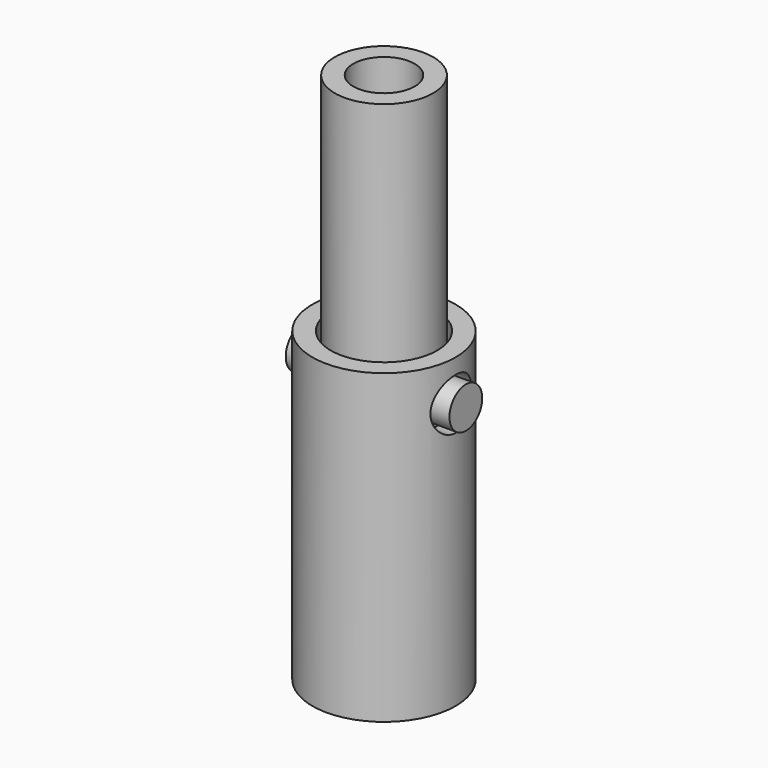
from build123d import *

# Parameters (mm, degrees)
F0_R           = 35
F0_R_2         = 26
F1_DEPTH       = 150
F3_R           = 24
F3_R_2         = 15
F4_DEPTH       = 150
F5_R           = 12.5
F6_DEPTH       = 35.001
F6_DEPTH_BACK  = 35.001
F7_R           = 10
F8_DEPTH       = 40
F8_DEPTH_BACK  = 40
F9_R           = 6
F10_DEPTH      = 110.0010001
F10_DEPTH_BACK = 150.0010001


with BuildPart() as f1:
    # F0 (on Top) → F1 (new body)
    with BuildSketch(Plane.XY):
        Circle(F0_R)
        Circle(F0_R_2, mode=Mode.SUBTRACT)
    extrude(amount=-F1_DEPTH)


with BuildPart() as f4:
    # F3 (on offset) → F4 (new body)
    with BuildSketch(Plane.XY.offset(-40)):
        Circle(F3_R)
        Circle(F3_R_2, mode=Mode.SUBTRACT)
    extrude(amount=F4_DEPTH)


with BuildPart() as f6_tool:
    # F5 (on Right) → F6 (new body, two sides)
    with BuildSketch(Plane.YZ) as f6_sk:
        with Locations((0, -20)):
            Circle(F5_R)
    extrude(amount=-F6_DEPTH)
    extrude(f6_sk.sketch, amount=F6_DEPTH_BACK)


with BuildPart() as f1_1:
    add(f1.part)

    # F6: cut by f6_tool
    add(f6_tool.part, mode=Mode.SUBTRACT)


with BuildPart() as f4_1:
    add(f4.part)

    # F6: cut by f6_tool
    add(f6_tool.part, mode=Mode.SUBTRACT)


with BuildPart() as f8:
    # F7 (on Right) → F8 (new body, two sides)
    with BuildSketch(Plane.YZ) as f8_sk:
        with Locations((0, -20)):
            Circle(F7_R)
    extrude(amount=F8_DEPTH)
    extrude(f8_sk.sketch, amount=-F8_DEPTH_BACK)

    # F9 (on Top) → F10 (cut, two sides)
    with BuildSketch(Plane.XY) as f10_sk:
        Circle(F9_R)
    extrude(amount=F10_DEPTH, mode=Mode.SUBTRACT)
    extrude(f10_sk.sketch, amount=-F10_DEPTH_BACK, mode=Mode.SUBTRACT)


solid = Compound([f1_1.part, f4_1.part, f8.part])
